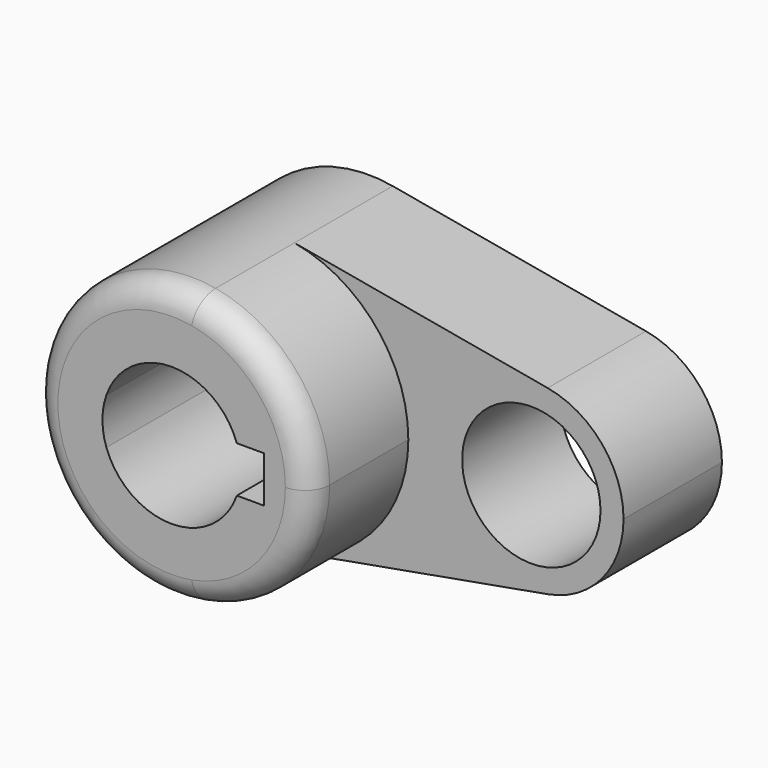
from build123d import *

# Parameters (mm, degrees)
F0_R     = 14.2875
F1_DEPTH = 25.4
F2_DEPTH = 50.8
F3_R     = 5.08


with BuildPart() as f1:
    # F0 (on Front) → F1 (new body)
    with BuildSketch(Plane.XZ):
        with BuildLine():
            ThreePointArc((5.042647, -28.126541), (21.916025, -18.336262), (28.575, 0))
            ThreePointArc((28.575, 0), (21.916025, 18.336262), (5.042647, 28.126541))
            ThreePointArc((5.042647, 28.126541), (-28.575, 0), (5.042647, -28.126541))
        make_face()
        with BuildLine():
            ThreePointArc((-13.470384, 4.7625), (0, 14.2875), (13.470384, 4.7625))
            Line((13.470384, 4.7625), (19.05, 4.7625))
            Line((19.05, 4.7625), (19.05, -4.7625))
            Line((19.05, -4.7625), (13.470384, -4.7625))
            ThreePointArc((13.470384, -4.7625), (0, -14.2875), (-13.470384, -4.7625))
            Line((-13.470384, -4.7625), (-19.05, -4.7625))
            Line((-19.05, -4.7625), (-19.05, 4.7625))
            Line((-19.05, 4.7625), (-13.470384, 4.7625))
        make_face(mode=Mode.SUBTRACT)
        with BuildLine():
            ThreePointArc((-13.470384, -4.7625), (-14.2875, 0), (-13.470384, 4.7625))
            Line((-13.470384, 4.7625), (-19.05, 4.7625))
            Line((-19.05, 4.7625), (-19.05, -4.7625))
            Line((-19.05, -4.7625), (-13.470384, -4.7625))
        make_face()
        with BuildLine():
            ThreePointArc((5.042647, 28.126541), (21.916025, 18.336262), (28.575, 0))
            ThreePointArc((28.575, 0), (21.916025, -18.336262), (5.042647, -28.126541))
            Line((5.042647, -28.126541), (57.336765, -18.751028))
            ThreePointArc((57.336765, -18.751028), (34.925, 0), (57.336765, 18.751028))
            Line((57.336765, 18.751028), (5.042647, 28.126541))
        make_face()
        with BuildLine():
            ThreePointArc((73.025, 0), (68.585683, 12.224174), (57.336765, 18.751028))
            ThreePointArc((57.336765, 18.751028), (34.925, 0), (57.336765, -18.751028))
            ThreePointArc((57.336765, -18.751028), (68.585683, -12.224174), (73.025, 0))
        make_face()
        with Locations((53.975, 0)):
            Circle(F0_R, mode=Mode.SUBTRACT)
    extrude(amount=F1_DEPTH)

    # F0 (on Front) → F2 (join)
    with BuildSketch(Plane.XZ):
        with BuildLine():
            ThreePointArc((5.042647, -28.126541), (21.916025, -18.336262), (28.575, 0))
            ThreePointArc((28.575, 0), (21.916025, 18.336262), (5.042647, 28.126541))
            ThreePointArc((5.042647, 28.126541), (-28.575, 0), (5.042647, -28.126541))
        make_face()
        with BuildLine():
            ThreePointArc((-13.470384, 4.7625), (0, 14.2875), (13.470384, 4.7625))
            Line((13.470384, 4.7625), (19.05, 4.7625))
            Line((19.05, 4.7625), (19.05, -4.7625))
            Line((19.05, -4.7625), (13.470384, -4.7625))
            ThreePointArc((13.470384, -4.7625), (0, -14.2875), (-13.470384, -4.7625))
            Line((-13.470384, -4.7625), (-19.05, -4.7625))
            Line((-19.05, -4.7625), (-19.05, 4.7625))
            Line((-19.05, 4.7625), (-13.470384, 4.7625))
        make_face(mode=Mode.SUBTRACT)
        with BuildLine():
            ThreePointArc((-13.470384, -4.7625), (-14.2875, 0), (-13.470384, 4.7625))
            Line((-13.470384, 4.7625), (-19.05, 4.7625))
            Line((-19.05, 4.7625), (-19.05, -4.7625))
            Line((-19.05, -4.7625), (-13.470384, -4.7625))
        make_face()
    extrude(amount=F2_DEPTH)

    # F3
    f3_edges = [f1.edges().sort_by_distance(p)[0] for p in [
        (-5.042647, -50.8, 28.126541),
    ]]
    fillet(f3_edges, radius=F3_R)


solid = f1.part
